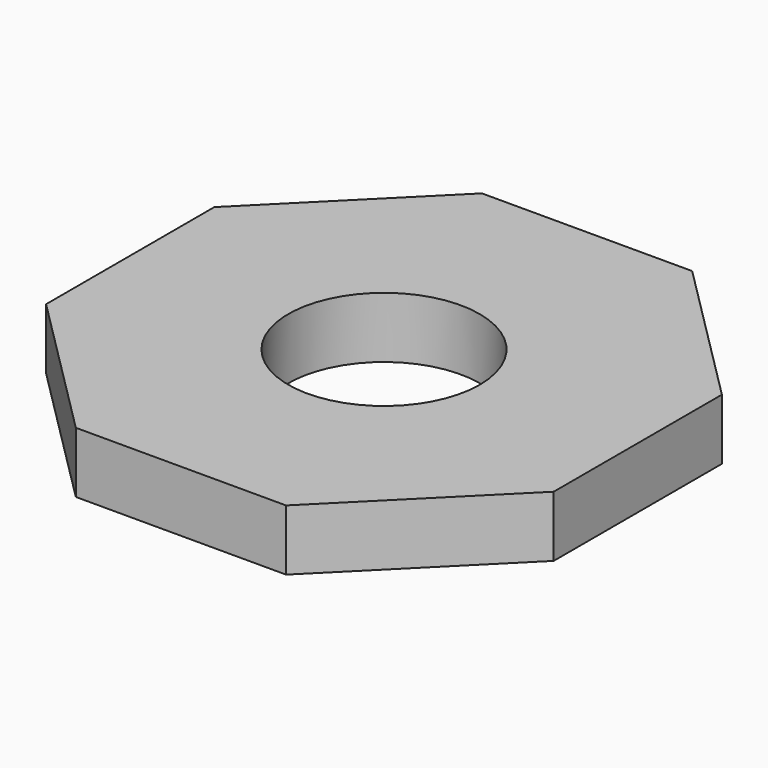
from build123d import *

# Parameters (mm, degrees)
F0_R     = 11
F1_DEPTH = 7


with BuildPart() as f1:
    # F0 (on Top) → F1 (new body)
    with BuildSketch(Plane.XY):
        Polygon((-12.080665, 29.165304), (-29.165304, 12.080665), (-29.165304, -12.080665), (-12.080665, -29.165304), (12.080665, -29.165304), (29.165304, -12.080665), (29.165304, 12.080665), (12.080665, 29.165304), align=None)
        Circle(F0_R, mode=Mode.SUBTRACT)
    extrude(amount=F1_DEPTH)


solid = f1.part
